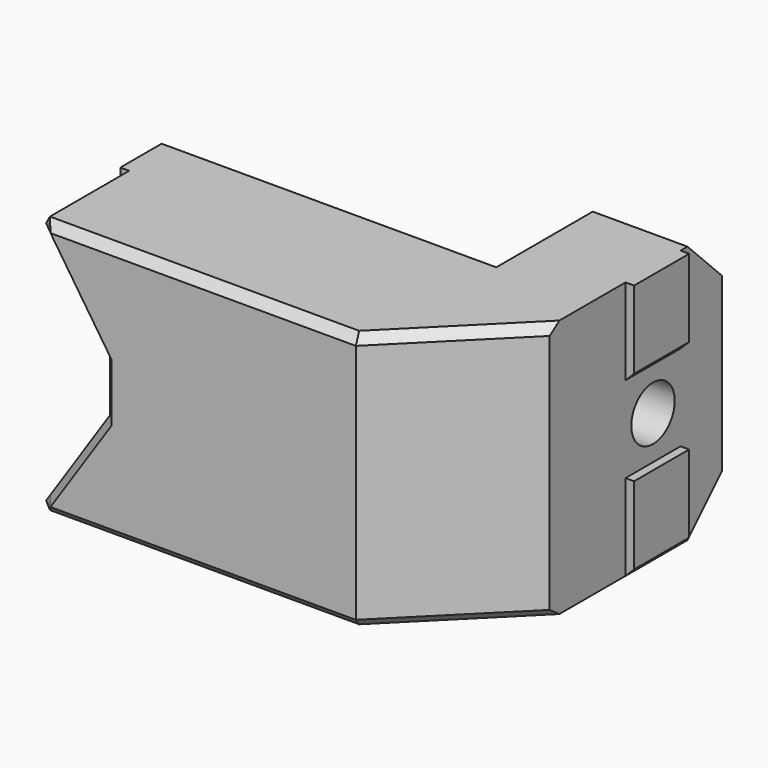
from build123d import *

# Parameters (mm, degrees)
SKETCH084_W               = 50
SKETCH084_H               = 30
PAD025_DEPTH              = 25
PAD026_DEPTH              = 12.5
SKETCH086_R               = 2
POCKET054_DEPTH           = 6
SKETCH087_W               = 38
SKETCH087_H               = 30
POCKET055_DEPTH           = 18
SKETCH088_R               = 2
POCKET056_DEPTH           = 25.001
POCKET057_DEPTH           = 30.001
SKETCH090_R               = 3.15
POCKET058_DEPTH           = 50.001
SKETCH091_W               = 10
SKETCH091_H               = 8
PAD027_DEPTH              = 1
CHAMFER020_SIZE           = 5
CHAMFER021_SIZE           = 1
POCKET059_DEPTH           = 0.15
CHAMFER022_SIZE           = 0.4
CHAMFER023_SIZE           = 0.99
SKETCH142_W               = 9
SKETCH142_H               = 9
PAD043_DEPTH              = 5
CHAMFER009002001021_SIZE2 = 7
CHAMFER009002001021_SIZE  = 4.99
SKETCH143_W               = 3
SKETCH143_H               = 2
POCKET093_DEPTH           = 11.001
CHAMFER009002001022_SIZE  = 1


with BuildPart() as part:
    # Sketch084 → Pad025 (new body)
    with BuildSketch(Plane.XZ):
        with Locations((25, 15)):
            Rectangle(SKETCH084_W, SKETCH084_H)
    extrude(amount=PAD025_DEPTH)

    # Sketch085 (on Face6 of Pad025) → Pad026 (join)
    with BuildSketch(Plane.XZ.offset(25)):
        Polygon((0.180278, 30), (8.15, 18.045416), (8.15, 11.954584), (0.180278, 0), (50, 0), (50, 30), align=None)
    extrude(amount=PAD026_DEPTH)

    # Sketch086 (on Face4 of Pad026) → Pocket054 (cut)
    with BuildSketch(Plane(origin=(0, 0, 0), x_dir=(1, 0, 0), z_dir=(0, 1, 0))):
        with Locations((4, -15)):
            Circle(SKETCH086_R)
    extrude(amount=-POCKET054_DEPTH, mode=Mode.SUBTRACT)

    # Sketch087 (on Face4 of Pocket054) → Pocket055 (cut)
    with BuildSketch(Plane(origin=(0, 0, 0), x_dir=(1, 0, 0), z_dir=(0, 1, 0))):
        with Locations((19, -15)):
            Rectangle(SKETCH087_W, SKETCH087_H)
    extrude(amount=-POCKET055_DEPTH, mode=Mode.SUBTRACT)

    # Sketch088 (on Face7 of Pocket055) → Pocket056 (cut, through all)
    with BuildSketch(Plane.XZ.offset(25)):
        with Locations((4, 15)):
            Circle(SKETCH088_R)
    extrude(amount=-POCKET056_DEPTH, mode=Mode.SUBTRACT)

    # Sketch089 (on Face13 of Pocket056) → Pocket057 (cut, through all)
    with BuildSketch(Plane(origin=(0, 0, 30), x_dir=(-1, 0, 0), z_dir=(0, 0, 1))):
        Polygon((-50, 37.5), (-37.5, 37.5), (-50, 25), align=None)
    extrude(amount=-POCKET057_DEPTH, mode=Mode.SUBTRACT)

    # Sketch090 (on Face11 of Pocket057) → Pocket058 (cut, through all)
    with BuildSketch(Plane(origin=(50, 0, 0), x_dir=(0, 0, 1), z_dir=(1, 0, 0))):
        with Locations((15, 10)):
            Circle(SKETCH090_R)
    extrude(amount=-POCKET058_DEPTH, mode=Mode.SUBTRACT)

    # Sketch091 (on Face11 of Pocket058) → Pad027 (join)
    with BuildSketch(Plane(origin=(50, 0, 0), x_dir=(0, 0, 1), z_dir=(1, 0, 0))):
        with Locations((5, 10)):
            Rectangle(SKETCH091_W, SKETCH091_H)
        with Locations((25, 10)):
            Rectangle(SKETCH091_W, SKETCH091_H)
    extrude(amount=PAD027_DEPTH)

    # Chamfer020
    chamfer020_edges = [part.edges().sort_by_distance(p)[0] for p in [
        (44, 0, 30),
        (44, 0, 0),
    ]]
    chamfer(chamfer020_edges, length=CHAMFER020_SIZE)

    # Chamfer021
    chamfer021_edges = [part.edges().sort_by_distance(p)[0] for p in [
        (18.840139, -37.5, 30),
        (4.165139, -37.5, 24.022708),
        (8.15, -37.5, 15),
        (18.840139, -37.5, 0),
        (43.75, -31.25, 30),
        (43.75, -31.25, 0),
        (0.180278, -31.25, 0),
        (0.180278, -31.25, 30),
        (19, -18, 30),
        (38, -11.5, 30),
        (38, -2.5, 27.5),
        (38, 0, 15),
        (38, -2.5, 2.5),
        (38, -11.5, 0),
        (19, -18, 0),
        (4.165139, -37.5, 5.977292),
    ]]
    chamfer(chamfer021_edges, length=CHAMFER021_SIZE)

    # Chamfer021 Face21 → Pocket059 (cut)
    with BuildSketch(Plane(origin=(0, -21.515152, 15), x_dir=(0, 1, 0), z_dir=(-1, 0, 0))):
        Polygon((3.515152, -14), (3.515152, 14), (2.515152, 15), (-3.484848, 15), (-3.484848, -15), (2.515152, -15), align=None)
    extrude(amount=-POCKET059_DEPTH, mode=Mode.SUBTRACT)

    # Chamfer022
    chamfer022_edges = [part.edges().sort_by_distance(p)[0] for p in [
        (38, -10, 11.85),
        (2, -18, 15),
    ]]
    chamfer(chamfer022_edges, length=CHAMFER022_SIZE)

    # Chamfer023
    chamfer023_edges = [part.edges().sort_by_distance(p)[0] for p in [
        (51, -10, 0),
        (51, -10, 20),
    ]]
    chamfer(chamfer023_edges, length=CHAMFER023_SIZE)

    # Sketch142 (on Face34 of Chamfer023) → Pad043 (join)
    with BuildSketch(Plane(origin=(0, -18, 0), x_dir=(1, 0, 0), z_dir=(0, 1, 0))):
        with Locations((9.5, -6.5)):
            Rectangle(SKETCH142_W, SKETCH142_H)
    extrude(amount=PAD043_DEPTH)

    # Chamfer009002001021
    chamfer009002001021_edges = [part.edges().sort_by_distance(p)[0] for p in [
        (9.5, -13, 2),
    ]]
    chamfer009002001021_side = part.faces().sort_by_distance((9.5, -15.5, 2))[0]
    chamfer(chamfer009002001021_edges, length=CHAMFER009002001021_SIZE, length2=CHAMFER009002001021_SIZE2, reference=chamfer009002001021_side)

    # Sketch143 (on Face7 of Chamfer009002001021) → Pocket093 (cut, through all)
    with BuildSketch(Plane(origin=(0, 0, 11), x_dir=(-1, 0, 0), z_dir=(0, 0, 1))):
        with Locations((-9.5, 17)):
            Rectangle(SKETCH143_W, SKETCH143_H)
    extrude(amount=-POCKET093_DEPTH, mode=Mode.SUBTRACT)

    # Chamfer009002001022
    chamfer009002001022_edges = [part.edges().sort_by_distance(p)[0] for p in [
        (9.5, -16, 11),
        (9.5, -16, 4.791583),
    ]]
    chamfer(chamfer009002001022_edges, length=CHAMFER009002001022_SIZE)


with BuildPart() as part_1:
    # Body009 placement: moved
    add(part.part.moved(Location((20, 17.5, -30))))


solid = part_1.part
